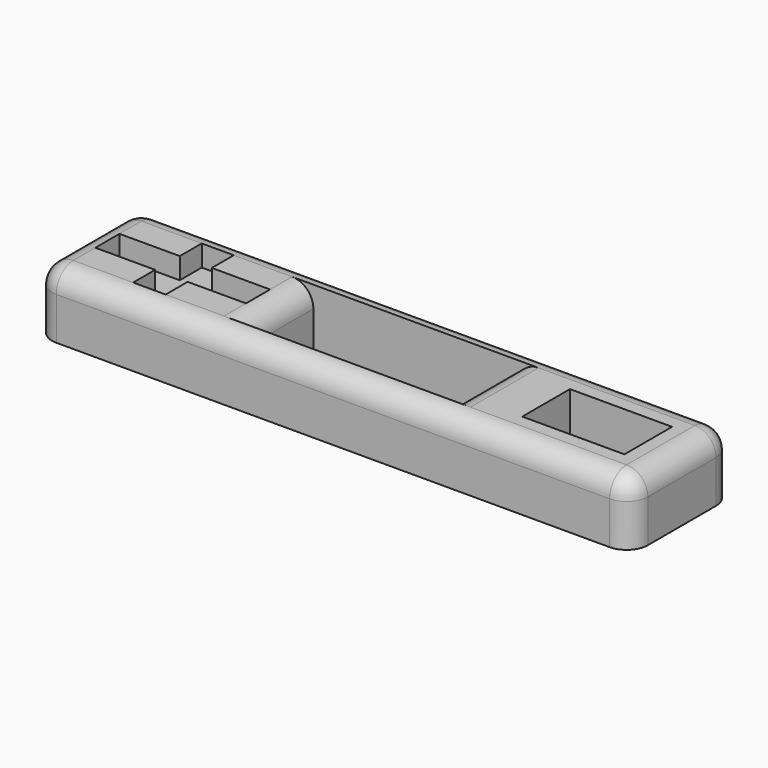
from build123d import *

# Parameters (mm, degrees)
F0_W     = 140
F0_H     = 30
F1_DEPTH = 15
F2_R     = 5
F3_W     = 47.9276580736
F3_H     = 20
F4_DEPTH = 25
F5_R     = 5
F6_R     = 5
F8_DEPTH = 25
F7_W     = 7.5194314122
F7_H     = 6.4587649889
F7_W_2   = 7.6362714171
F9_DEPTH = 5


with BuildPart() as f1:
    # F0 (on Top) → F1 (new body)
    with BuildSketch(Plane.XY):
        with Locations((11.6495971382, 1.335599795)):
            Rectangle(F0_W, F0_H)
    extrude(amount=F1_DEPTH)

    # F2
    f2_edges = [f1.edges().sort_by_distance(p)[0] for p in [
        (81.649597, -13.6644, 7.5),
        (81.649597, 16.3356, 7.5),
        (81.649597, 1.3356, 15),
        (11.649597, -13.6644, 15),
        (11.649597, 16.3356, 15),
    ]]
    fillet(f2_edges, radius=F2_R)

    # F3 (on face) → F4 (cut)
    with BuildSketch(Plane.XY.offset(15)):
        with Locations((11.0180326737, 1.335599795)):
            Rectangle(F3_W, F3_H)
    extrude(amount=-F4_DEPTH, mode=Mode.SUBTRACT)

    # F5
    f5_edges = [f1.edges().sort_by_distance(p)[0] for p in [
        (-12.945796, 1.3356, 15),
        (34.981862, 1.3356, 15),
    ]]
    fillet(f5_edges, radius=F5_R)

    # F6
    f6_edges = [f1.edges().sort_by_distance(p)[0] for p in [
        (-58.350403, 1.3356, 15),
    ]]
    fillet(f6_edges, radius=F6_R)

    # F7 (on face) → F8 (cut)
    with BuildSketch(Plane.XY.offset(15)):
        Polygon((73.7369505465, 1.335599795), (73.7369505465, 8.335599795), (49.7369505465, 8.335599795), (49.7369505465, 1.335599795), (49.7369505465, -5.664400205), (73.7369505465, -5.664400205), align=None)
    extrude(amount=-F8_DEPTH, mode=Mode.SUBTRACT)

    # F7 (on face) → F9 (cut)
    with BuildSketch(Plane.XY.offset(15)):
        Polygon((-53.3504028618, 1.335599795), (-53.3504028618, -2.2056352161), (-39.2847135663, -2.2056352161), (-31.6484421492, -2.2056352161), (-17.9457963631, -2.2056352161), (-17.9457963631, 1.335599795), (-17.9457963631, 4.8768348061), (-31.6484421492, 4.8768348061), (-39.1678735614, 4.8768348061), (-53.3504028618, 4.8768348061), align=None)
        with Locations((-35.4081578553, 8.1062173005)):
            Rectangle(F7_W, F7_H)
        with Locations((-35.4665778577, -5.4350177106)):
            Rectangle(F7_W_2, F7_H)
    extrude(amount=-F9_DEPTH, mode=Mode.SUBTRACT)


solid = f1.part
